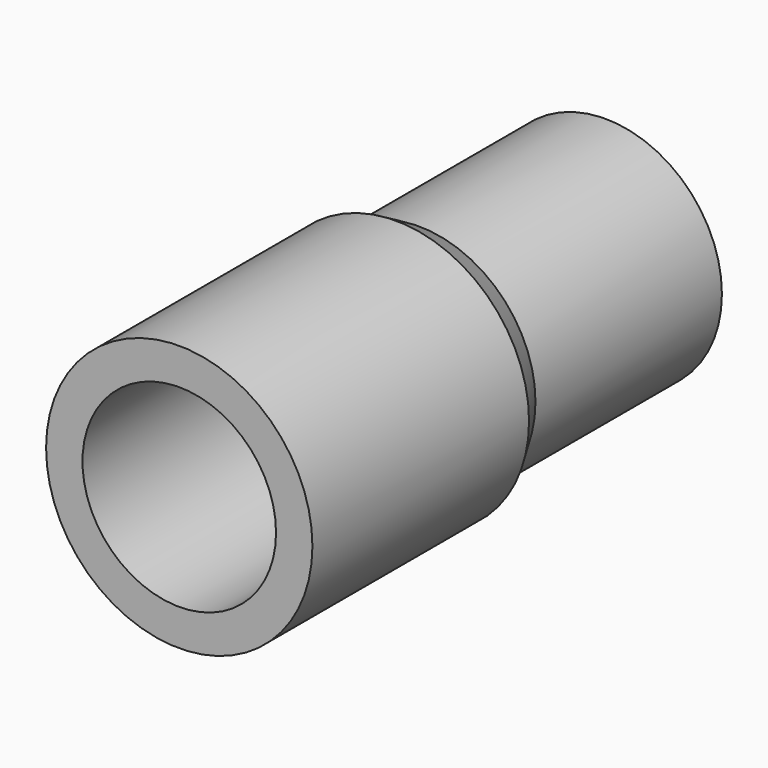
from build123d import *

# Parameters (mm, degrees)
F0_R     = 50.8
F1_DEPTH = 203.2
F4_R     = 36.9189
F5_DEPTH = 203.2


with BuildPart() as f1:
    # F0 (on Front) → F1 (new body)
    with BuildSketch(Plane.XZ):
        Circle(F0_R)
    extrude(amount=F1_DEPTH)

    # F2 (on Top) → F3 (revolve, cut)
    with BuildSketch(Plane.XY):
        Polygon((89.635386, 0), (44.45, 0), (44.45, -88.9), (89.635386, -167.163385), align=None)
    revolve(axis=Axis((0, 0, 0), (0, 1, 0)), mode=Mode.SUBTRACT)

    # F4 (on face) → F5 (cut)
    with BuildSketch(Plane.XZ.offset(203.2)):
        Circle(F4_R)
    extrude(amount=-F5_DEPTH, mode=Mode.SUBTRACT)


solid = f1.part
